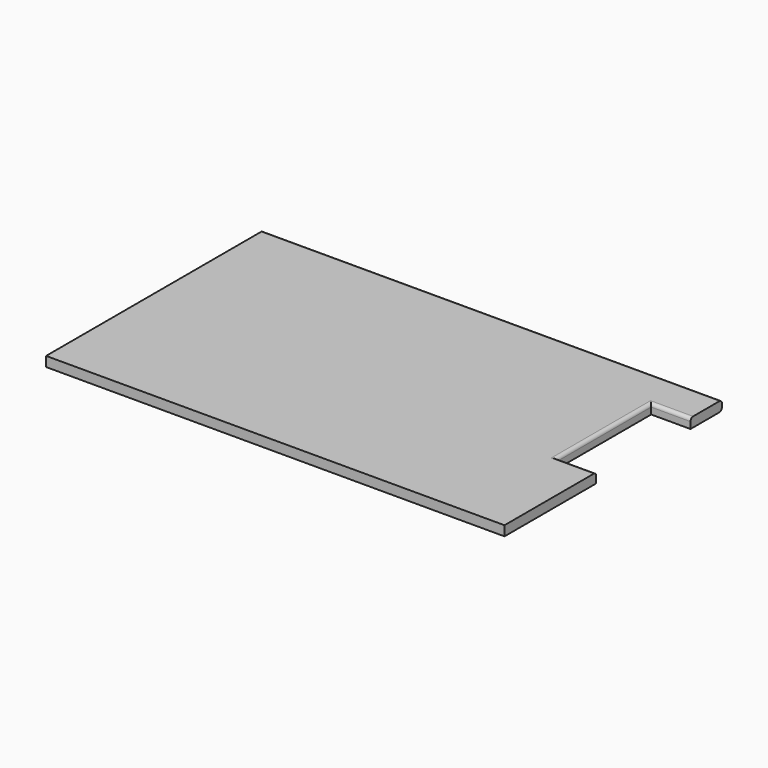
from build123d import *

# Parameters (mm, degrees)
F1_DEPTH = 19.05
F2_R     = 6.35


with BuildPart() as f1:
    # F0 (on Top) → F1 (new body)
    with BuildSketch(Plane.XY):
        Polygon((-444.5, -263.525), (444.5, -263.525), (444.5, -41.275), (368.3, -41.275), (368.3, 187.325), (444.5, 187.325), (444.5, 263.525), (-444.5, 263.525), align=None)
    extrude(amount=F1_DEPTH)

    # F2
    f2_edges = [f1.edges().sort_by_distance(p)[0] for p in [
        (0, 263.525, 19.05),
        (0, 263.525, 0),
        (406.4, -41.275, 19.05),
        (368.3, 73.025, 19.05),
        (406.4, 187.325, 19.05),
    ]]
    fillet(f2_edges, radius=F2_R)


solid = f1.part
